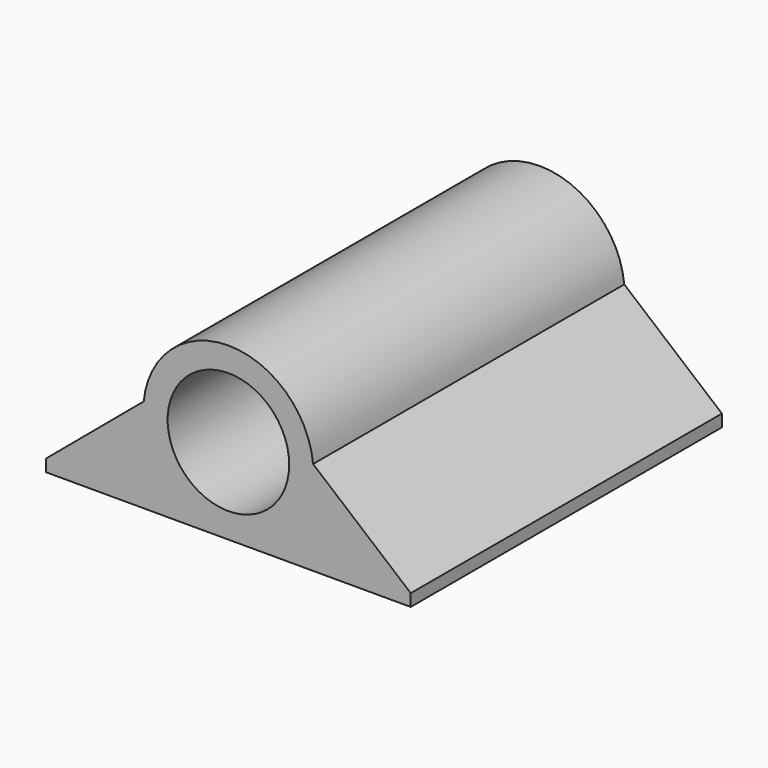
from build123d import *

# Parameters (mm, degrees)
F0_R     = 2.5
F1_DEPTH = 16


with BuildPart() as f1:
    # F0 (on Front) → F1 (new body)
    with BuildSketch(Plane.XZ):
        with BuildLine():
            Line((-15, 0), (0, 0))
            Line((0, 0), (0, 0.5))
            Line((0, 0.5), (-4.016613, 3.870338))
            ThreePointArc((-4.016613, 3.870338), (-7.5, 7.029729), (-10.983387, 3.870338))
            Line((-10.983387, 3.870338), (-15, 0.5))
            Line((-15, 0.5), (-15, 0))
        make_face()
        with Locations((-7.5, 3.529729)):
            Circle(F0_R, mode=Mode.SUBTRACT)
    extrude(amount=F1_DEPTH)


solid = f1.part
